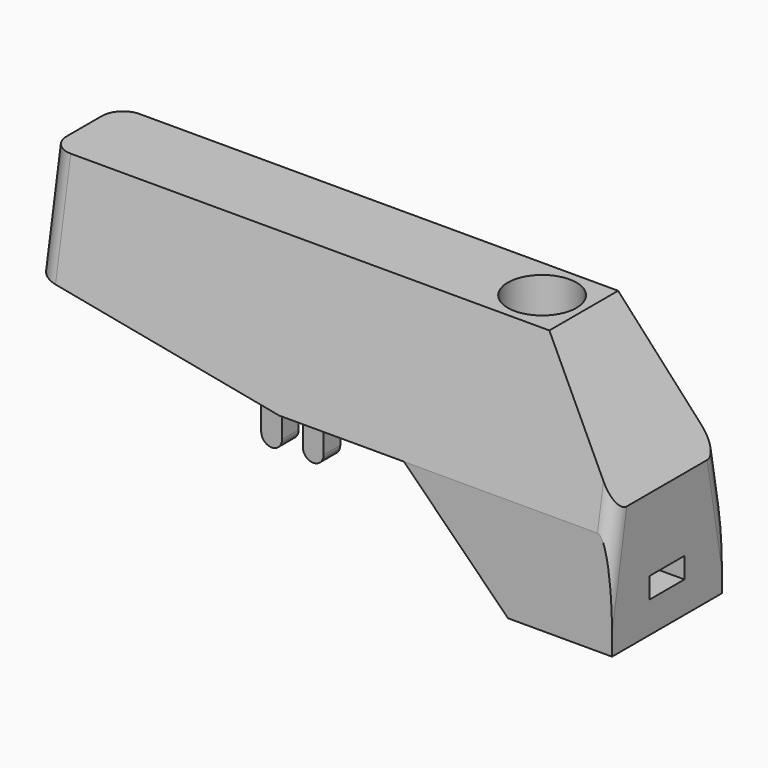
from build123d import *

# Parameters (mm, degrees)
CYLINDER_R      = 1.65
CYLINDER_DEPTH  = 30
PAD005_DEPTH    = 1.05
PAD001_DEPTH    = 3.3
POCKET004_DEPTH = 28.001
PAD002_DEPTH    = 0.5
FILLET_R        = 0.7
FILLET002_R     = 1


with BuildPart() as black_led_base:
    # Cylinder → Cylinder (join)
    with BuildSketch(Plane(origin=(-6, 0, -15), x_dir=(1, 0, 0), z_dir=(0, 0, 1))):
        Circle(CYLINDER_R)
    extrude(amount=CYLINDER_DEPTH)


with BuildPart() as obj1:
    # Sketch016 → Pad005 (new body, symmetric)
    with BuildSketch(Plane.XZ):
        Polygon((-6, 2.5), (-6, -0.5), (0, -0.5), (0, 0.5), align=None)
    extrude(amount=PAD005_DEPTH, both=True)


with BuildPart() as black_f:
    # Sketch005 → Pad001 (new body, symmetric)
    with BuildSketch(Plane.XZ):
        Polygon((0, 0), (0, -2), (-5, -2), (-10, 3), (-16, 3), (-28, 5), (-28, 10), (-4, 10), (0, 4), align=None)
    extrude(amount=PAD001_DEPTH, both=True)

    # Sketch006 → Pocket004 (cut, through all)
    with BuildSketch(Plane.YZ):
        Polygon((-3.3, 0), (-3.3, 3), (0, 21.71523), (3.3, 3), (3.3, 0), (13, 0), (13, 26), (-13, 26), (-13, 0), align=None)
    extrude(amount=-POCKET004_DEPTH, mode=Mode.SUBTRACT)

    # Sketch008 → Pad002 (join, symmetric)
    with BuildSketch(Plane.XZ.offset(2)):
        with BuildLine():
            ThreePointArc((-15.5, 1.5), (-15, 1), (-14.5, 1.5))
            Line((-14.5, 1.5), (-14.5, 3))
            ThreePointArc((-14.5, 3), (-15, 3.5), (-15.5, 3))
            Line((-15.5, 1.5), (-15.5, 3))
        make_face()
        with BuildLine():
            ThreePointArc((-16.5, 3), (-17, 3.5), (-17.5, 3))
            Line((-17.5, 3), (-17.5, 1.5))
            ThreePointArc((-17.5, 1.5), (-17, 1), (-16.5, 1.5))
            Line((-16.5, 3), (-16.5, 1.5))
        make_face()
    pad002 = extrude(amount=PAD002_DEPTH, both=True)

    # Mirrored001: Pad002 across XZ
    add(pad002.mirror(Plane.XZ))

    # Fillet
    fillet_edges = [black_f.edges().sort_by_distance(p)[0] for p in [
        (0, -3.211837, 3.5),
        (0, 3.211837, 3.5),
    ]]
    fillet(fillet_edges, radius=FILLET_R)

    # Fillet002
    fillet002_edges = [black_f.edges().sort_by_distance(p)[0] for p in [
        (-28, -2.506529, 7.5),
        (-28, 2.506529, 7.5),
    ]]
    fillet(fillet002_edges, radius=FILLET002_R)

    # Boolean001: cut black_led_BASE, obj1
    add(black_led_base.part, mode=Mode.SUBTRACT)
    add(obj1.part, mode=Mode.SUBTRACT)


with BuildPart() as black_f_1:
    # Clone010 placement: moved
    add(black_f.part.moved(Location((0, -7.65, 0))))


solid = black_f_1.part
